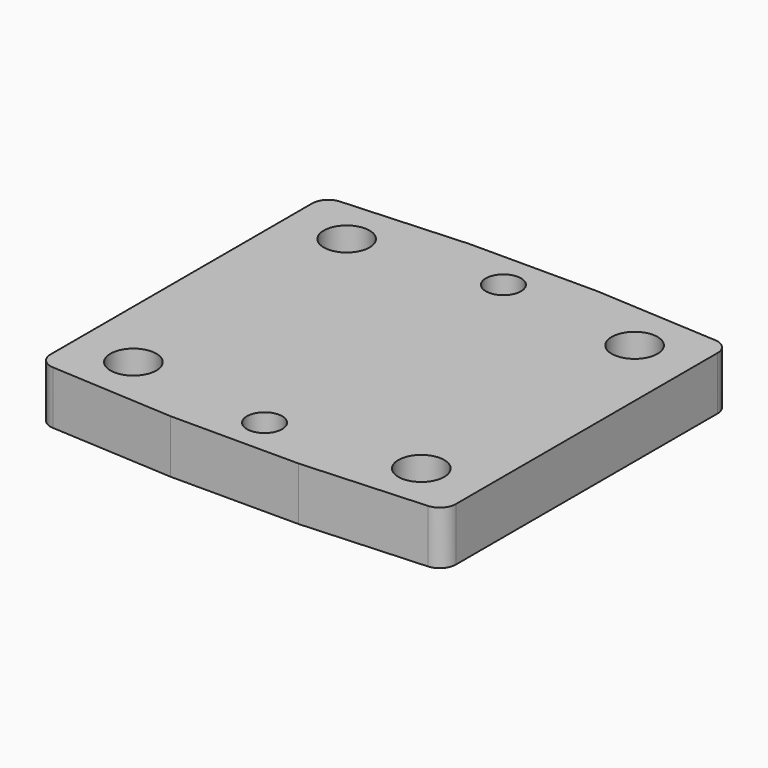
from build123d import *

# Parameters (mm, degrees)
SKETCH_R        = 4.3
PAD_DEPTH       = 10
SKETCH001_R     = 3.3
POCKET_DEPTH    = 10.001
POCKET001_DEPTH = 5.2
FILLET_R        = 3


with BuildPart() as part:
    # Sketch → Pad (new body)
    with BuildSketch(Plane.XY):
        Polygon((76, 0), (76, 67), (50, 68.5), (26, 68.5), (0, 67), (0, 0), (26, -1.5), (50, -1.5), align=None)
        with Locations((11, 58.5)):
            Circle(SKETCH_R, mode=Mode.SUBTRACT)
        with Locations((65, 58.5)):
            Circle(SKETCH_R, mode=Mode.SUBTRACT)
        with Locations((65, 8.5)):
            Circle(SKETCH_R, mode=Mode.SUBTRACT)
        with Locations((11, 8.5)):
            Circle(SKETCH_R, mode=Mode.SUBTRACT)
    extrude(amount=PAD_DEPTH)

    # Sketch001 (on Face14 of Pad) → Pocket (cut, through all)
    with BuildSketch(Plane.XY.offset(10)):
        with Locations((38, 61.5)):
            Circle(SKETCH001_R)
        with Locations((38, 5.5)):
            Circle(SKETCH001_R)
    extrude(amount=-POCKET_DEPTH, mode=Mode.SUBTRACT)

    # Sketch002 (on Face4 of Pocket) → Pocket001 (cut)
    with BuildSketch(Plane(origin=(0, 0, 0), x_dir=(1, 0, 0), z_dir=(0, 0, -1))):
        Polygon((40.973354, -10.65), (43.946708, -5.5), (40.973354, -0.35), (35.026646, -0.35), (32.053292, -5.5), (35.026646, -10.65), align=None)
        Polygon((43.946708, -61.5), (40.973354, -56.35), (35.026646, -56.35), (32.053292, -61.5), (35.026646, -66.65), (40.973354, -66.65), align=None)
    extrude(amount=-POCKET001_DEPTH, mode=Mode.SUBTRACT)

    # Fillet
    fillet_edges = [part.edges().sort_by_distance(p)[0] for p in [
        (0, 67, 5),
        (0, 0, 5),
        (76, 0, 5),
        (76, 67, 5),
    ]]
    fillet(fillet_edges, radius=FILLET_R)


solid = part.part
